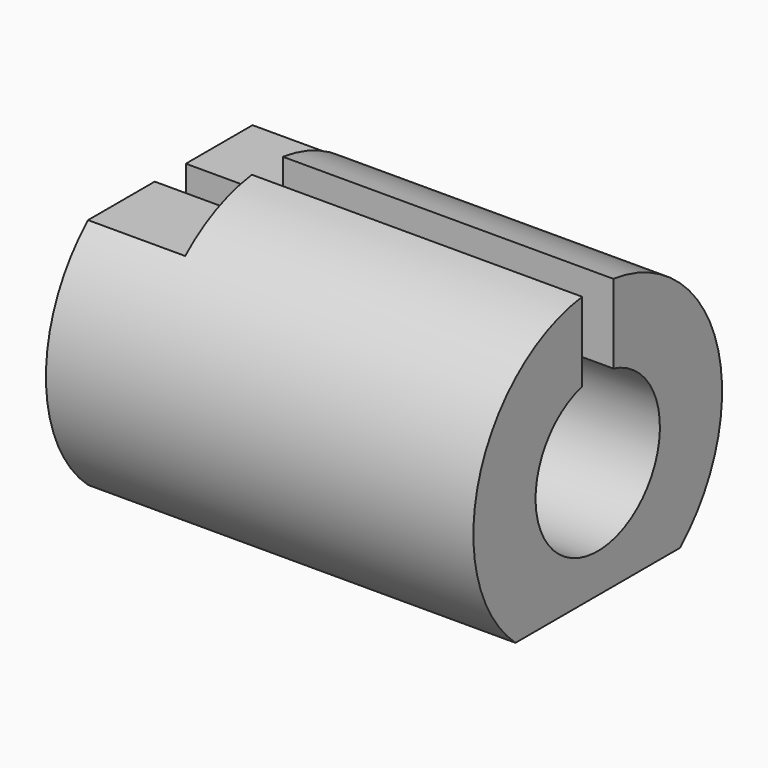
from build123d import *

# Parameters (mm, degrees)
SKETCH084_W           = 10
SKETCH084_H           = 2
EXTRUDE079_DEPTH      = 5
SKETCH008_W           = 8
SKETCH008_H           = 2
EXTRUDE006_DEPTH      = 12
EXTRUDE001_DEPTH      = 9
EXTRUDE001_DEPTH_BACK = 2


with BuildPart() as extrude079:
    # Sketch084 → Extrude079 (new body)
    with BuildSketch(Plane.YZ.offset(33.5)):
        with Locations((18, 6)):
            Rectangle(SKETCH084_W, SKETCH084_H)
    extrude(amount=-EXTRUDE079_DEPTH)


with BuildPart() as compound002:
    # Sketch008 → Extrude006 (new body)
    with BuildSketch(Plane.YZ.offset(42)):
        with Locations((18, -2)):
            Rectangle(SKETCH008_W, SKETCH008_H)
    extrude(amount=-EXTRUDE006_DEPTH)

    # Compound002: union Extrude079
    add(extrude079.part)


with BuildPart() as antenna001:
    # Sketch001 → Extrude001 (new body, two sides)
    with BuildSketch(Plane.YZ.offset(33)) as extrude001_sk:
        with BuildLine():
            ThreePointArc((17.5, 3.936492), (18, 0), (18.5, 3.936492))
            Line((18.5, 5.968627), (18.5, 3.936492))
            ThreePointArc((17.5, 5.968627), (18, -2), (18.5, 5.968627))
            Line((17.5, 5.968627), (17.5, 3.936492))
        make_face()
    extrude(amount=EXTRUDE001_DEPTH)
    extrude(extrude001_sk.sketch, amount=-EXTRUDE001_DEPTH_BACK)

    # Cut003: cut Compound002
    add(compound002.part, mode=Mode.SUBTRACT)


solid = antenna001.part
